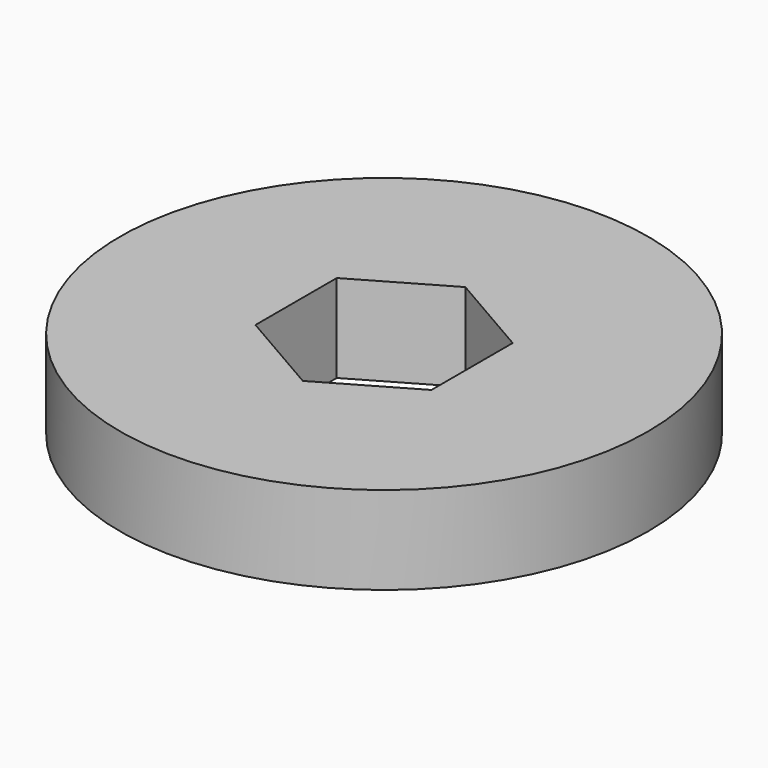
from build123d import *

# Parameters (mm, degrees)
F0_R     = 19.05
F1_DEPTH = 6.35


with BuildPart() as f1:
    # F0 (on Top) → F1 (new body)
    with BuildSketch(Plane.XY):
        Circle(F0_R)
        Polygon((0, 7.332348), (6.35, 3.666174), (6.35, -3.666174), (0, -7.332348), (-6.35, -3.666174), (-6.35, 3.666174), align=None, mode=Mode.SUBTRACT)
    extrude(amount=-F1_DEPTH)


solid = f1.part
